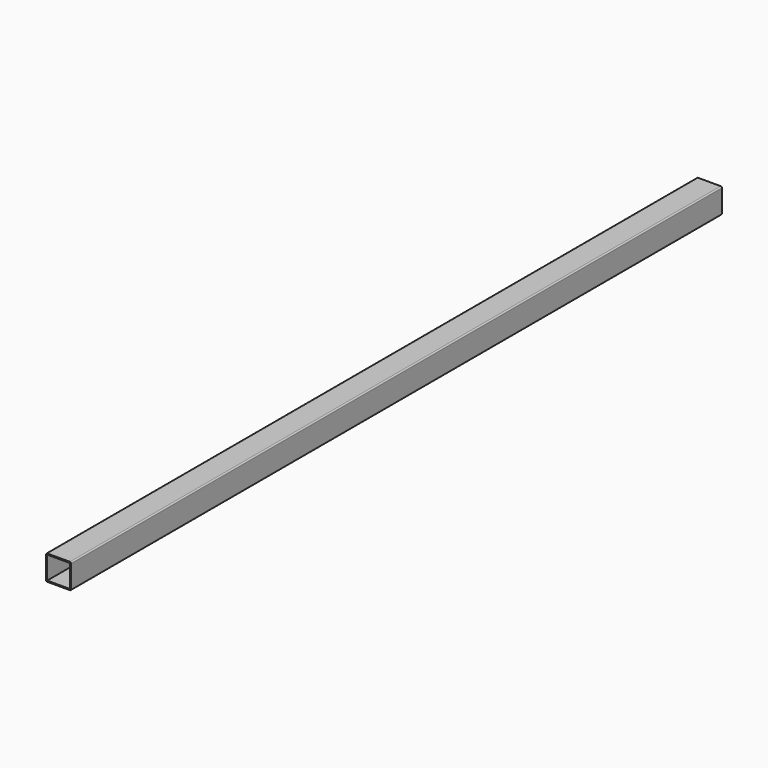
from build123d import *

# Parameters (mm, degrees)
F0_W     = 20
F0_H     = 20
F0_W_2   = 18.2
F0_H_2   = 18.2
F1_DEPTH = 325
F2_R     = 1


with BuildPart() as f1:
    # F0 (on Front) → F1 (new body, symmetric)
    with BuildSketch(Plane.XZ):
        Rectangle(F0_W, F0_H)
        Rectangle(F0_W_2, F0_H_2, mode=Mode.SUBTRACT)
    extrude(amount=F1_DEPTH, both=True)

    # F2
    f2_edges = [f1.edges().sort_by_distance(p)[0] for p in [
        (10, 0, 10),
        (-10, 0, 10),
        (10, 0, -10),
        (-10, 0, -10),
    ]]
    fillet(f2_edges, radius=F2_R)


solid = f1.part
